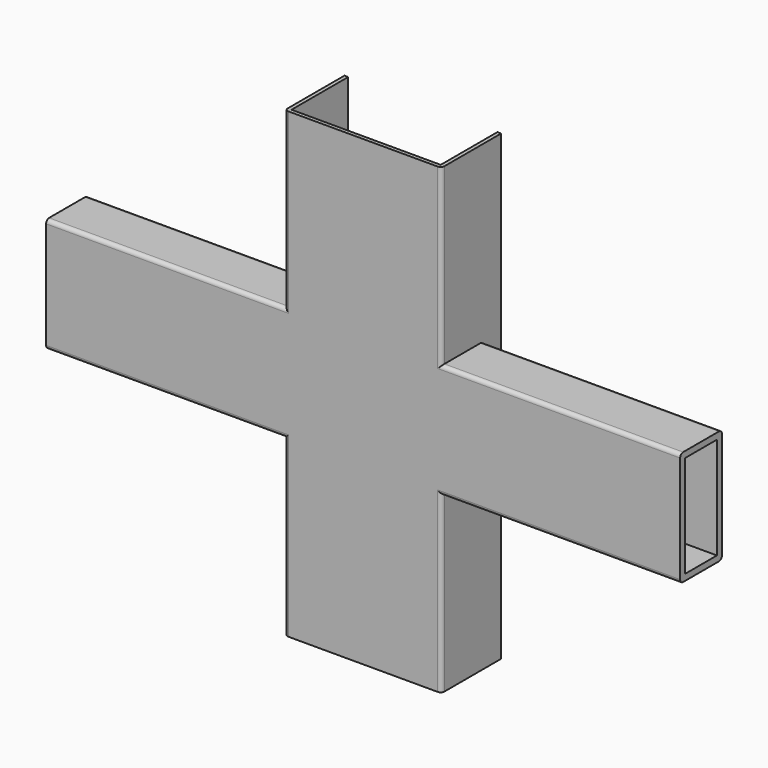
from build123d import *

# Parameters (mm, degrees)
F0_W     = 1066.8
F0_H     = 2336.8
F0_W_2   = 812.8
F0_H_2   = 2082.8
F1_DEPTH = 6477
F2_W     = 3200.4
F2_H     = 1524
F3_DEPTH = 4724.4
F4_W     = 3048
F4_H     = 1447.8
F5_DEPTH = 9448.8
F6_R     = 76.2


with BuildPart() as f1:
    # F0 (on Right) → F1 (new body, symmetric)
    with BuildSketch(Plane.YZ):
        Rectangle(F0_W, F0_H)
        Rectangle(F0_W_2, F0_H_2, mode=Mode.SUBTRACT)
    extrude(amount=F1_DEPTH, both=True)

    # F2 (on Top) → F3 (join, symmetric)
    with BuildSketch(Plane.XY):
        with Locations((0, 228.6)):
            Rectangle(F2_W, F2_H)
    extrude(amount=F3_DEPTH, both=True)

    # F4 (on face) → F5 (cut)
    with BuildSketch(Plane.XY.offset(4724.4)):
        with Locations((0, 266.7)):
            Rectangle(F4_W, F4_H)
    extrude(amount=-F5_DEPTH, mode=Mode.SUBTRACT)

    # F6
    f6_edges = [f1.edges().sort_by_distance(p)[0] for p in [
        (-4038.6, -533.4, 1168.4),
        (4038.6, -533.4, 1168.4),
        (-4038.6, -533.4, -1168.4),
        (4038.6, -533.4, -1168.4),
        (-1600.2, -533.4, 2946.4),
        (-1600.2, -533.4, -2946.4),
        (1600.2, -533.4, -2946.4),
        (1600.2, -533.4, 2946.4),
        (-4038.6, 533.4, 1168.4),
        (4038.6, 533.4, 1168.4),
        (-4038.6, 533.4, -1168.4),
        (4038.6, 533.4, -1168.4),
    ]]
    fillet(f6_edges, radius=F6_R)


solid = f1.part
